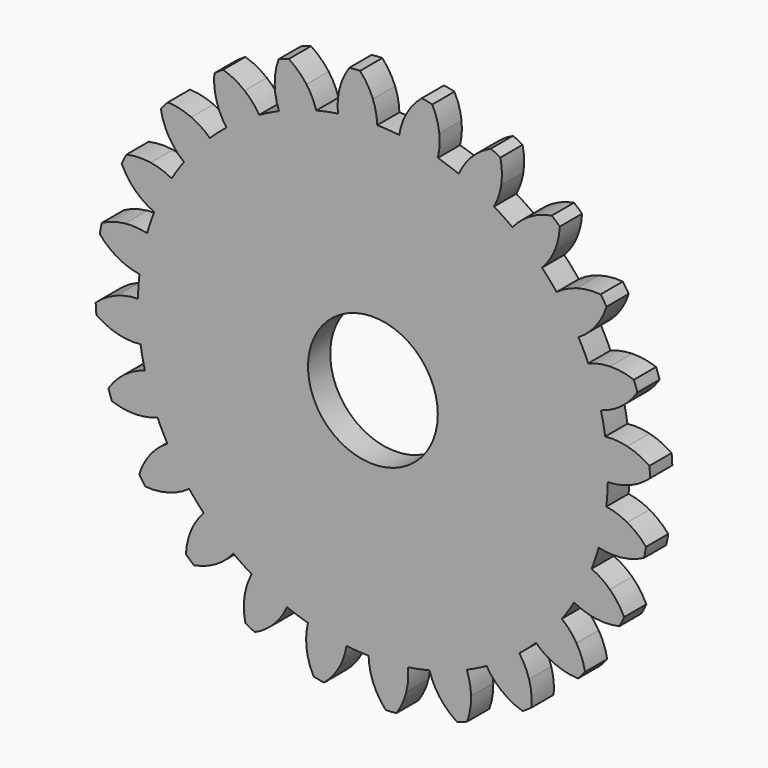
from build123d import *

# Parameters (mm, degrees)
F0_R     = 14.8383348819
F1_DEPTH = 6.35
F2_COUNT = 24
F2_ANGLE = 345


with BuildPart() as f1:
    # F0 (on Front) → F1 (new body)
    with BuildSketch(Plane.XZ):
        with BuildLine():
            ThreePointArc((-7.9879964687, 53.1237964891), (-35.0486995672, -40.7128296689), (53.721, 0))
            ThreePointArc((53.721, 0), (38.3333657483, 37.6364040712), (0.9856111796, 53.7119578083))
            ThreePointArc((0.9856111796, 53.7119578083), (-3.5135215054, 53.6059792153), (-7.9879964687, 53.1237964891))
        make_face()
        Circle(F0_R, mode=Mode.SUBTRACT)
        with BuildLine():
            ThreePointArc((-7.9879964687, 53.1237964891), (-3.5135215054, 53.6059792153), (0.9856111796, 53.7119578083))
            ThreePointArc((0.9856111796, 53.7119578083), (0.707988796, 56.2357207765), (0, 58.674))
            ThreePointArc((0, 58.674), (-1.2428260262, 61.1648314842), (-2.9279782315, 63.3804849002))
            ThreePointArc((-2.9279782315, 63.3804849002), (-4.1507932915, 63.3288677951), (-5.3698843833, 63.2204339151))
            ThreePointArc((-5.3698843833, 63.2204339151), (-6.7514190742, 60.8037792206), (-7.6584938023, 58.1720357962))
            ThreePointArc((-7.6584938023, 58.1720357962), (-8.0421663534, 55.6622053078), (-7.9879964687, 53.1237964891))
        make_face()
    extrude(amount=F1_DEPTH)

    # F2: F1 ×24 about axis
    f2_axis = Axis((0, 0, 0), (0, 1, 0))


with BuildPart() as f1_1:
    add(f1.part)
    for i in range(1, F2_COUNT):
        add(f1.part.rotate(f2_axis, i * F2_ANGLE / (F2_COUNT - 1)))


solid = f1_1.part
